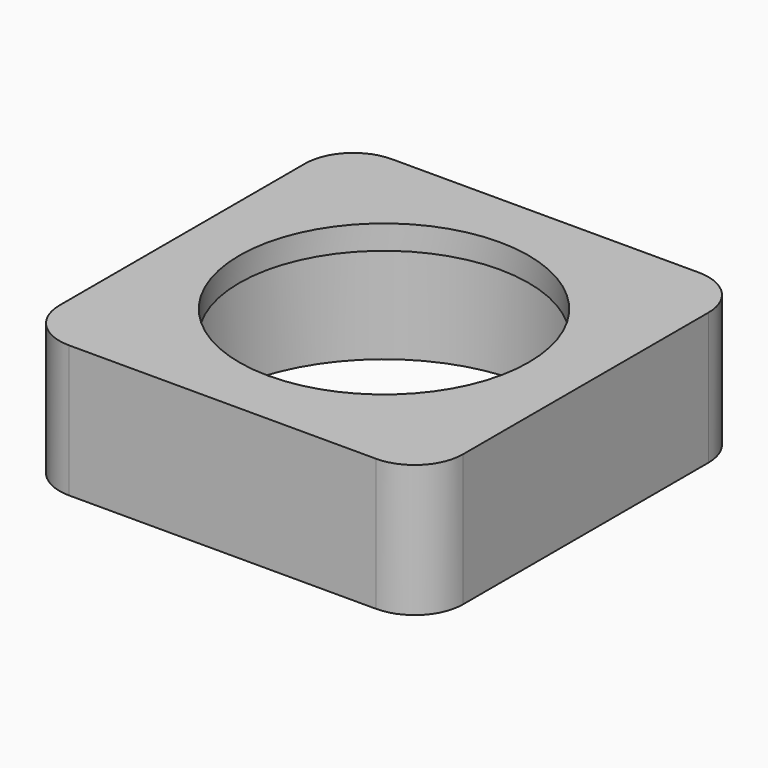
from build123d import *

# Parameters (mm, degrees)
F0_W     = 26.555576
F0_H     = 26.555576
F0_R     = 9.525
F1_DEPTH = 8.6995
F2_R     = 3.175
F3_R     = 11.1125
F4_DEPTH = 7.112
F5_R     = 1.35255
F6_DEPTH = 4.7625


with BuildPart() as f1:
    # F0 (on Top) → F1 (new body)
    with BuildSketch(Plane.XY):
        Rectangle(F0_W, F0_H)
        Circle(F0_R, mode=Mode.SUBTRACT)
    extrude(amount=F1_DEPTH)

    # F2
    f2_edges = [f1.edges().sort_by_distance(p)[0] for p in [
        (-13.277788, 13.277788, 4.34975),
        (-13.277788, -13.277788, 4.34975),
        (13.277788, -13.277788, 4.34975),
        (13.277788, 13.277788, 4.34975),
    ]]
    fillet(f2_edges, radius=F2_R)

    # F3 (on face) → F4 (cut)
    with BuildSketch(Plane(origin=(0, 0, 0), x_dir=(1, 0, 0), z_dir=(0, 0, -1))):
        Circle(F3_R)
    extrude(amount=-F4_DEPTH, mode=Mode.SUBTRACT)

    # F5 (on face) → F6 (cut)
    with BuildSketch(Plane(origin=(0, 0, 0), x_dir=(1, 0, 0), z_dir=(0, 0, -1))):
        with Locations((10.102788, 10.102788)):
            Circle(F5_R)
        with Locations((-10.102788, 10.102788)):
            Circle(F5_R)
        with Locations((-10.102788, -10.102788)):
            Circle(F5_R)
        with Locations((10.102788, -10.102788)):
            Circle(F5_R)
    extrude(amount=-F6_DEPTH, mode=Mode.SUBTRACT)


solid = f1.part
